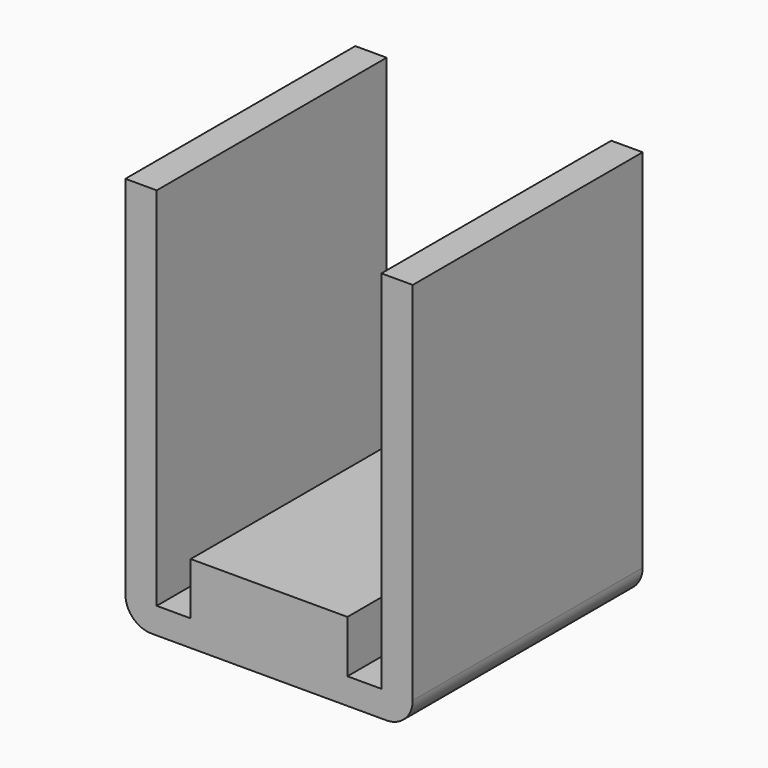
from build123d import *

# Parameters (mm, degrees)
PAD_DEPTH = 5.5


with BuildPart() as part:
    # Sketch (on Sketch) → Pad (new body, symmetric)
    with BuildSketch(Plane(origin=(0, 0, 0), x_dir=(1, 0, 0), z_dir=(0, 1, 0))):
        with BuildLine():
            Line((-4.3, 0), (-4.3, 14))
            Line((-4.3, 14), (-3, 14))
            Line((-3, 14), (-3, 12))
            Line((-3, 12), (3, 12))
            Line((3, 12), (3, 14))
            Line((3, 14), (4.3, 14))
            Line((4.3, 14), (4.3, 0))
            Line((4.3, 0), (5.5, 0))
            Line((5.5, 0), (5.5, 14))
            ThreePointArc((5.5, 14), (5.207107, 14.707107), (4.5, 15))
            Line((4.5, 15), (-4.5, 15))
            ThreePointArc((-4.5, 15), (-5.207107, 14.707107), (-5.5, 14))
            Line((-5.5, 14), (-5.5, 0))
            Line((-5.5, 0), (-4.3, 0))
        make_face()
    extrude(amount=PAD_DEPTH, both=True)


solid = part.part
